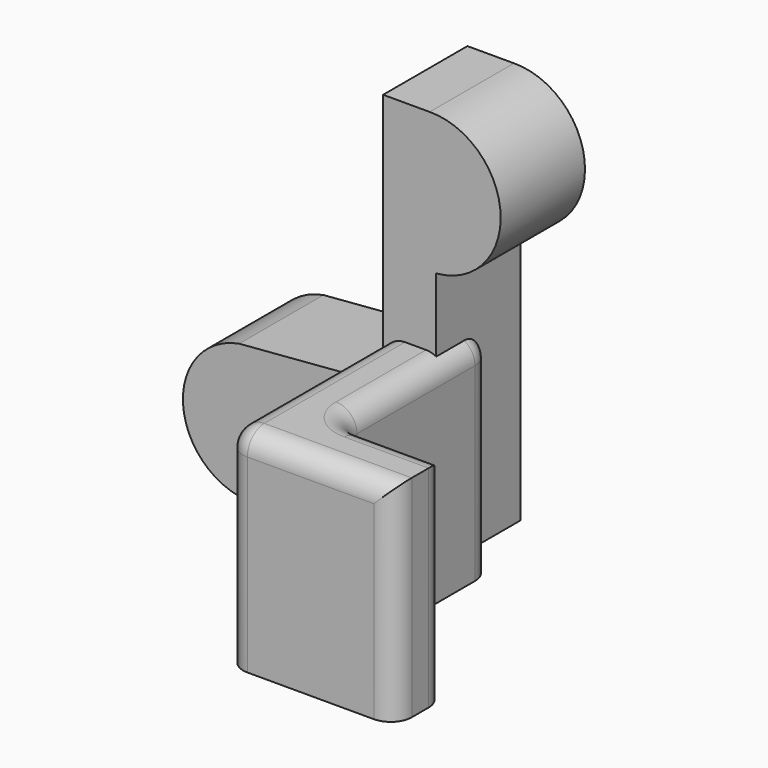
from build123d import *

# Parameters (mm, degrees)
EXTRUDE004_DEPTH = 5
EXTRUDE003_DEPTH = 10
FILLET021_R      = 1


with BuildPart() as extrude004:
    # Sketch006 → Extrude004 (new body)
    with BuildSketch(Plane.XZ):
        with BuildLine():
            ThreePointArc((14.771842, 0.154152), (17.827348, 3.62591), (14.461083, 6.797264))
            Line((14.461083, 6.797264), (12.252875, 6.797264))
            Line((12.252875, -5.267611), (12.252875, 6.797264))
            Line((5.422805, -5.82309), (12.252875, -5.267611))
            ThreePointArc((5.422805, -5.82309), (2.802341, -9.576998), (6.556249, -12.197462))
            Line((6.556249, -12.197462), (14.771842, -12.197462))
            Line((14.771842, -12.197462), (14.771842, 0.154152))
        make_face()
    extrude(amount=EXTRUDE004_DEPTH)


with BuildPart() as extrude004_1:
    # Extrude004 placement: moved
    add(extrude004.part.moved(Location((0, -8, 0))))


with BuildPart() as fillet021:
    # Sketch005 → Extrude003 (new body)
    with BuildSketch(Plane.XY):
        Polygon((57.709053, -19.346786), (57.709053, -22.346786), (65.709053, -22.346786), (65.709053, -10.346786), (62.709053, -10.346786), (62.709053, -19.346786), align=None)
    extrude(amount=EXTRUDE003_DEPTH)


with BuildPart() as fillet021_1:
    # Extrude003 placement: moved
    add(fillet021.part.moved(Location((0, 0, -14))))

    # Fillet021
    fillet021_edges = [fillet021_1.edges().sort_by_distance(p)[0] for p in [
        (57.709053, -19.346786, -9),
        (57.709053, -22.346786, -9),
        (65.709053, -22.346786, -9),
        (61.709053, -22.346786, -4),
        (65.709053, -10.346786, -9),
        (65.709053, -16.346786, -4),
        (62.709053, -10.346786, -9),
        (64.209053, -10.346786, -4),
        (62.709053, -19.346786, -9),
        (62.709053, -14.846786, -4),
        (60.209053, -19.346786, -4),
    ]]
    fillet(fillet021_edges, radius=FILLET021_R)


with BuildPart() as fillet021_2:
    # Fillet021 placement: moved
    add(fillet021_1.part.moved(Location((0, 0, 0.4))))


with BuildPart() as c4holds002:
    # Part__Mirroring005: instance of Fillet021
    add(fillet021_2.part.mirror(Plane(origin=(0, 0, 0), x_dir=(0, -1, 0), z_dir=(1, 0, 0))))


with BuildPart() as c4holds002_1:
    # Part__Mirroring005 placement: moved
    add(c4holds002.part.moved(Location((78, 0, 0.4))))

    # Fusion040: union Extrude004
    add(extrude004_1.part)


solid = c4holds002_1.part
